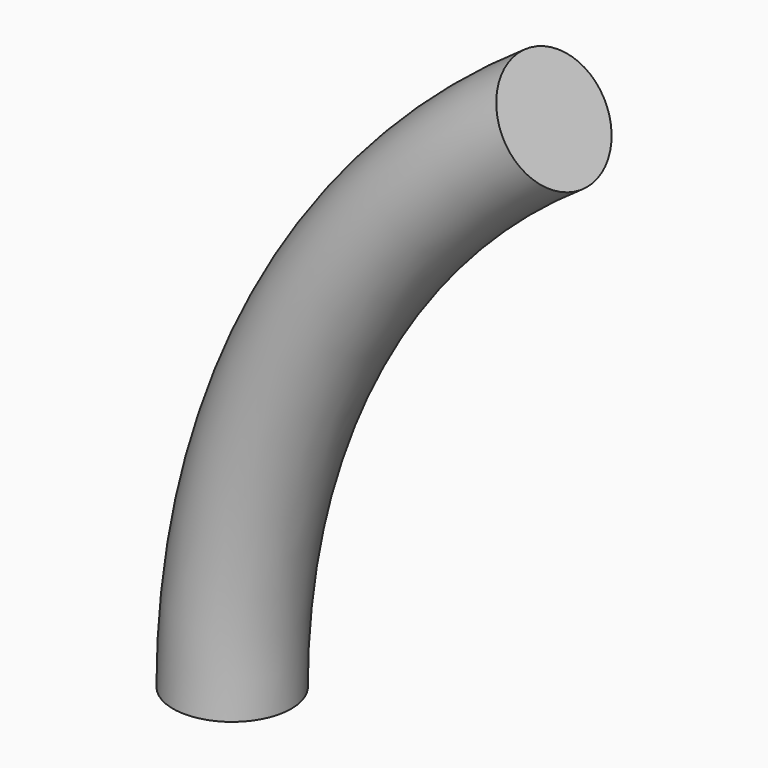
from build123d import *

# Parameters (mm, degrees)
F0_R = 2.25


with BuildPart() as f2:
    # F2: sweep along a path in F1
    with BuildLine(Plane.XZ) as f2_path:
        ThreePointArc((12.242681, 23), (3.251303, 13.027694), (0, 0))
    # F0 (on Top) → F2 (sweep)
    with BuildSketch(Plane.XY):
        Circle(F0_R)
    sweep(path=f2_path.line)


solid = f2.part
